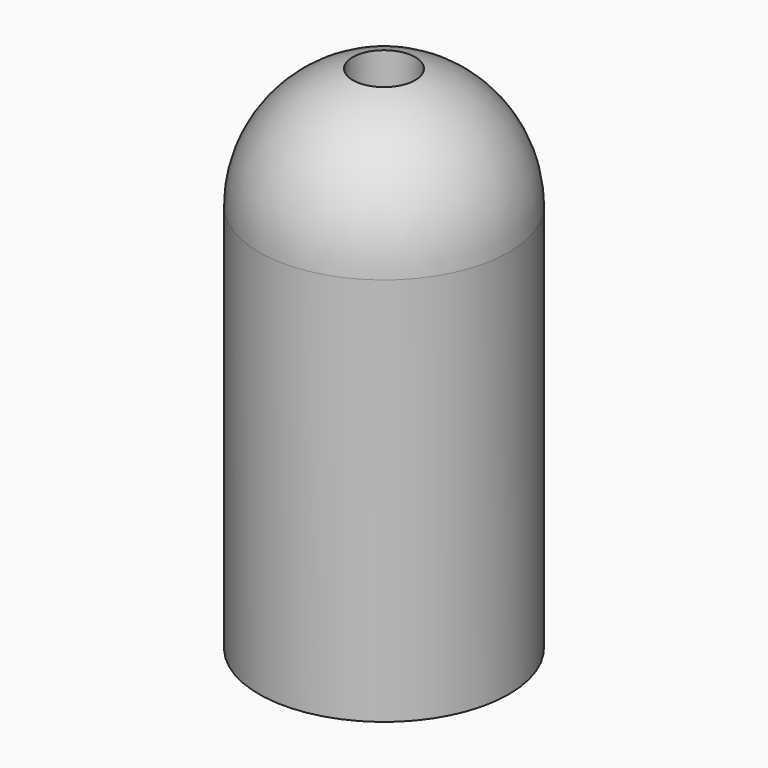
from build123d import *

# Parameters (mm, degrees)
F2_R     = 6.35
F3_DEPTH = 104.489224
F4_DEPTH = 76.2


with BuildPart() as f1:
    # F0 (on Front) → F1 (revolve)
    with BuildSketch(Plane.XZ):
        with BuildLine():
            Line((-3.134028, -33.796337), (-3.134028, -50.052336))
            Line((-3.134028, -50.052336), (22.265972, -50.052336))
            Line((22.265972, -50.052336), (22.265972, 29.035888))
            ThreePointArc((22.265972, 29.035888), (14.826484, 46.9964), (-3.134028, 54.435888))
            Line((-3.134028, 54.435888), (-3.134028, 38.179888))
            ThreePointArc((-3.134028, 38.179888), (3.331756, 35.501672), (6.009972, 29.035888))
            Line((6.009972, 29.035888), (6.009972, -33.796337))
            Line((6.009972, -33.796337), (-3.134028, -33.796337))
        make_face()
    revolve(axis=Axis((-3.134028, 0, 2.191776), (0, 0, -1)))

    # F2 (on face) → F3 (cut, through all)
    with BuildSketch(Plane(origin=(0, 0, -50.052336), x_dir=(1, 0, 0), z_dir=(0, 0, -1))):
        with Locations((-3.134028, 0)):
            Circle(F2_R)
    extrude(amount=-F3_DEPTH, mode=Mode.SUBTRACT)

    # F2 (on face) → F4 (join)
    with BuildSketch(Plane(origin=(0, 0, -50.052336), x_dir=(1, 0, 0), z_dir=(0, 0, -1))):
        with Locations((-3.134028, 0)):
            Circle(F2_R)
    extrude(amount=-F4_DEPTH)


solid = f1.part
